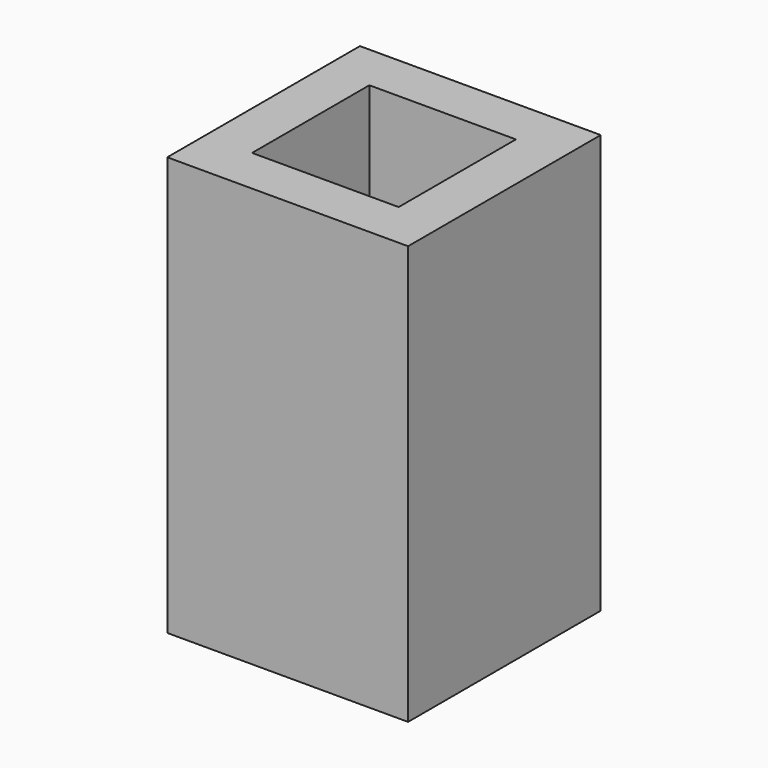
from build123d import *

# Parameters (mm, degrees)
SKETCH_W     = 4.6
SKETCH_H     = 4.6
PAD_DEPTH    = 8
SKETCH001_W  = 2.8
SKETCH001_H  = 2.8
POCKET_DEPTH = 4


with BuildPart() as part:
    # Sketch → Pad (new body)
    with BuildSketch(Plane.XY):
        with Locations((2.3, -2.3)):
            Rectangle(SKETCH_W, SKETCH_H)
    extrude(amount=PAD_DEPTH)

    # Sketch001 (on Face6 of Pad) → Pocket (cut)
    with BuildSketch(Plane.XY.offset(8)):
        with Locations((2.3, -2.3)):
            Rectangle(SKETCH001_W, SKETCH001_H)
    extrude(amount=-POCKET_DEPTH, mode=Mode.SUBTRACT)


solid = part.part
